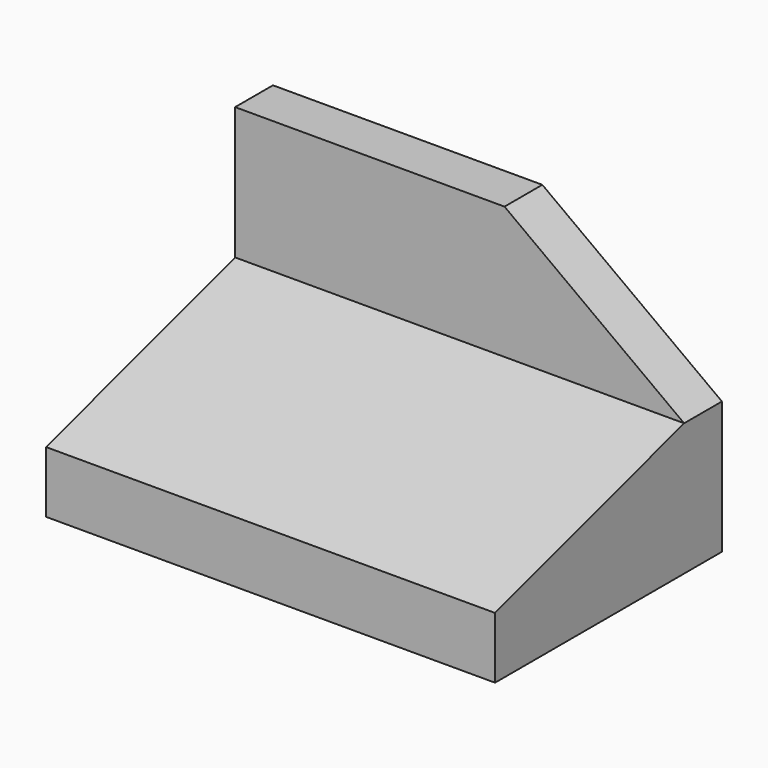
from build123d import *

# Parameters (mm, degrees)
F1_DEPTH = 95
F3_DEPTH = 25


with BuildPart() as f1:
    # F0 (on Right) → F1 (new body)
    with BuildSketch(Plane.YZ):
        Polygon((-60, 0), (0, 0), (0, 56), (-10, 56), (-10, 28), (-60, 13), align=None)
    extrude(amount=F1_DEPTH)

    # F2 (on face) → F3 (cut)
    with BuildSketch(Plane.XZ.offset(10)):
        Polygon((95, 56), (57, 56), (95, 28), align=None)
    extrude(amount=-F3_DEPTH, mode=Mode.SUBTRACT)


solid = f1.part
